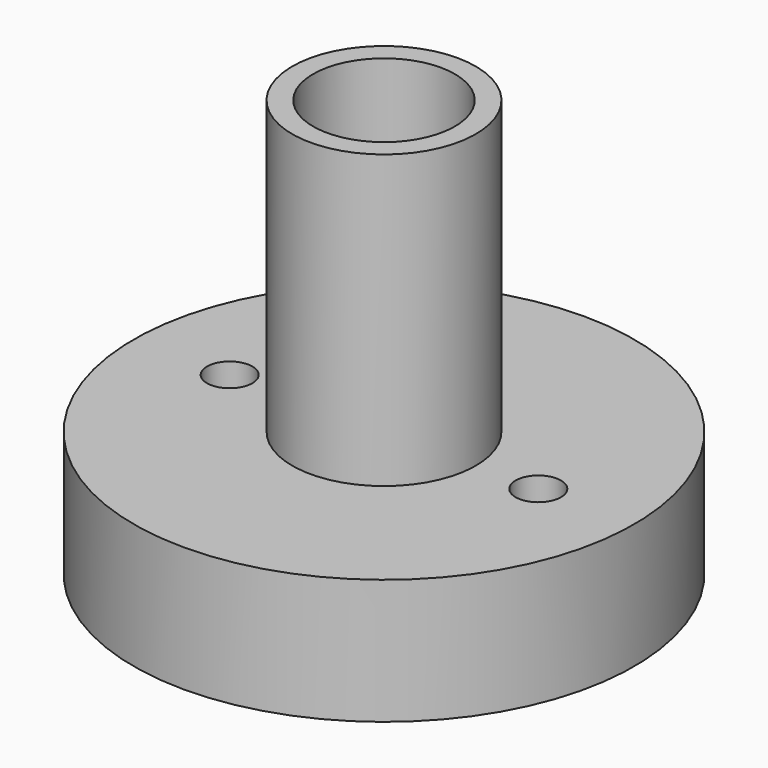
from build123d import *

# Parameters (mm, degrees)
F3_D = 3.4544


with BuildPart() as f1:
    # F0 (on Right) → F1 (revolve)
    with BuildSketch(Plane.YZ):
        Polygon((6.985, 31.75), (5.3975, 31.75), (5.3975, 0), (19.05, 0), (19.05, 9.525), (6.985, 9.525), align=None)
    revolve(axis=Axis((0, 0, 16.1745864898), (0, 0, 1)))

    # F3 (through all)
    with Locations(Plane(origin=(0, 0, 0), x_dir=(1, 0, 0), z_dir=(0, 0, -1))):
        with Locations((-11.7475, 0), (11.7475, 0)):
            Hole(F3_D / 2)


solid = f1.part
